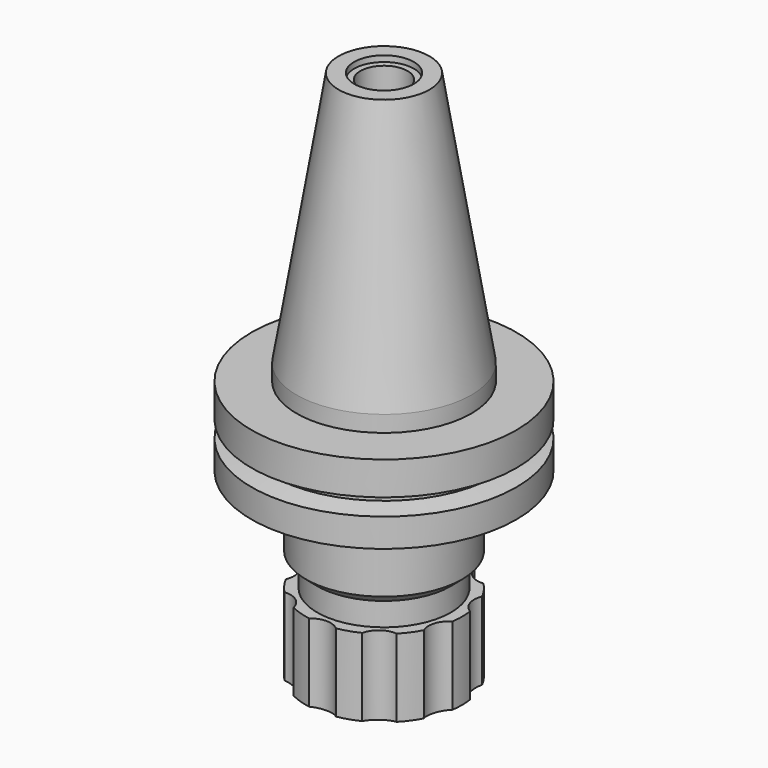
from build123d import *

# Parameters (mm, degrees)
F3_R     = 5.458927
F4_DEPTH = 25.4


with BuildPart() as f1:
    # F0 (on Front) → F1 (revolve)
    with BuildSketch(Plane.XZ):
        Polygon((6.389229, 71.903244), (6.389229, 0), (23.67539, 0), (23.67539, 4.417483), (12.29879, 73.511072), (8.081362, 73.511072), (8.081362, 71.903244), align=None)
        Polygon((6.389229, 0), (0, 0), (0, -49.266592), (18.096216, -49.266592), (18.096216, -42.980246), (21.148866, -40.366465), (21.148866, -21.316465), (35.870843, -21.316465), (35.870843, -13.614955), (30.21853, -12.796615), (30.21853, -9.887878), (35.870843, -9.034539), (35.870843, 0), (23.67539, 0), align=None)
    revolve(axis=Axis((0, 0, -35.6362), (0, 0, 1)))


with BuildPart() as f2:
    # F0 (on Front) → F2 (revolve)
    with BuildSketch(Plane.XZ):
        Polygon((18.096216, -49.266592), (0, -49.266592), (0, -71.2724), (15.775198, -71.2724), (21.148866, -70.311442), (21.148866, -49.266592), align=None)
    revolve(axis=Axis((0, 0, -35.6362), (0, 0, 1)))

    # F3 (on face) → F4 (cut)
    with BuildSketch(Plane(origin=(0, 0, -71.2724), x_dir=(1, 0, 0), z_dir=(0, 0, -1))):
        with Locations((0, 24.904419)):
            Circle(F3_R)
        with Locations((-14.63845, 20.148098)):
            Circle(F3_R)
        with Locations((-23.68551, 7.695889)):
            Circle(F3_R)
        with Locations((-23.68551, -7.695889)):
            Circle(F3_R)
        with Locations((-14.63845, -20.148098)):
            Circle(F3_R)
        with Locations((0, -24.904419)):
            Circle(F3_R)
        with Locations((14.63845, -20.148098)):
            Circle(F3_R)
        with Locations((23.68551, -7.695889)):
            Circle(F3_R)
        with Locations((23.68551, 7.695889)):
            Circle(F3_R)
        with Locations((14.63845, 20.148098)):
            Circle(F3_R)
    extrude(amount=-F4_DEPTH, mode=Mode.SUBTRACT)


solid = Compound([f1.part, f2.part])
